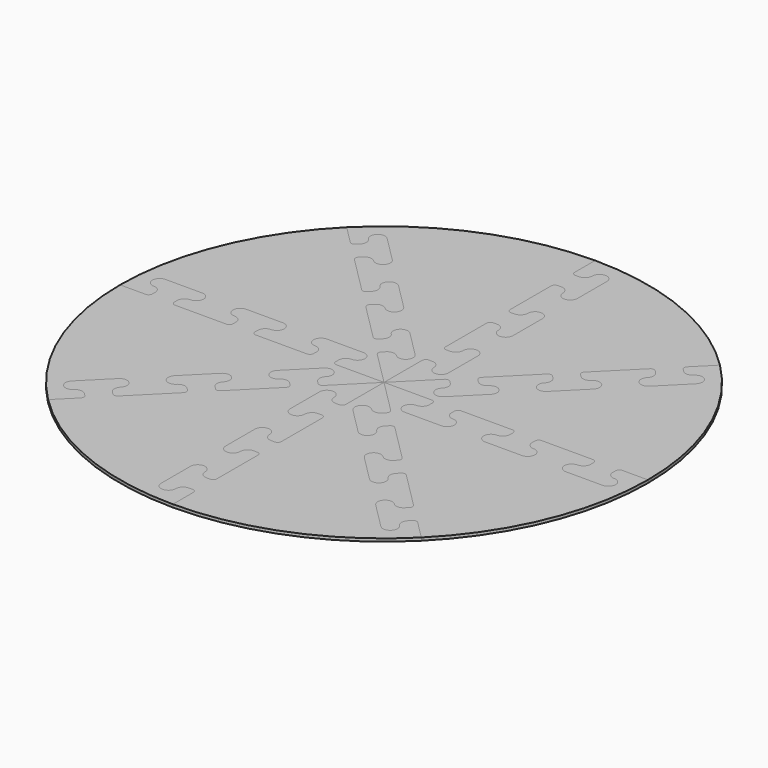
from build123d import *

# Parameters (mm, degrees)
F1_DEPTH = 5
F2_DEPTH = 5
F3_DEPTH = 5
F4_DEPTH = 5
F5_DEPTH = 5
F6_DEPTH = 5
F7_DEPTH = 5
F8_DEPTH = 5


with BuildPart() as f1:
    # F0 (on Top) → F1 (new body)
    with BuildSketch(Plane.XY):
        with BuildLine():
            Line((-412.75, 0), (-457.2, 0))
            ThreePointArc((-457.2, 0), (-422.397722, -174.962865), (-323.28922, -323.28922))
            Line((-323.28922, -323.28922), (-291.858324, -291.858324))
            ThreePointArc((-291.858324, -291.858324), (-289.998452, -287.368196), (-291.858324, -282.878068))
            Line((-291.858324, -282.878068), (-296.348452, -278.38794))
            ThreePointArc((-296.348452, -278.38794), (-305.328708, -274.668196), (-314.308964, -278.38794))
            ThreePointArc((-314.308964, -278.38794), (-332.269476, -278.38794), (-332.269476, -260.427428))
            Line((-332.269476, -260.427428), (-309.818836, -237.976787))
            Line((-309.818836, -237.976787), (-287.368196, -215.526147))
            ThreePointArc((-287.368196, -215.526147), (-269.407684, -215.526147), (-269.407684, -233.486659))
            ThreePointArc((-269.407684, -233.486659), (-273.127428, -242.466915), (-269.407684, -251.447171))
            Line((-269.407684, -251.447171), (-264.917556, -255.937299))
            ThreePointArc((-264.917556, -255.937299), (-260.427428, -257.797171), (-255.937299, -255.937299))
            Line((-255.937299, -255.937299), (-224.506403, -224.506403))
            Line((-224.506403, -224.506403), (-193.075507, -193.075507))
            ThreePointArc((-193.075507, -193.075507), (-191.215635, -188.585379), (-193.075507, -184.09525))
            Line((-193.075507, -184.09525), (-197.565635, -179.605122))
            ThreePointArc((-197.565635, -179.605122), (-206.545891, -175.885379), (-215.526147, -179.605122))
            ThreePointArc((-215.526147, -179.605122), (-233.486659, -179.605122), (-233.486659, -161.64461))
            Line((-233.486659, -161.64461), (-211.036019, -139.19397))
            Line((-211.036019, -139.19397), (-188.585379, -116.74333))
            ThreePointArc((-188.585379, -116.74333), (-170.624866, -116.74333), (-170.624866, -134.703842))
            ThreePointArc((-170.624866, -134.703842), (-174.34461, -143.684098), (-170.624866, -152.664354))
            Line((-170.624866, -152.664354), (-166.134738, -157.154482))
            ThreePointArc((-166.134738, -157.154482), (-161.64461, -159.014354), (-157.154482, -157.154482))
            Line((-157.154482, -157.154482), (-125.723586, -125.723586))
            Line((-125.723586, -125.723586), (-94.292689, -94.292689))
            ThreePointArc((-94.292689, -94.292689), (-92.432817, -89.802561), (-94.292689, -85.312433))
            Line((-94.292689, -85.312433), (-98.782817, -80.822305))
            ThreePointArc((-98.782817, -80.822305), (-107.763073, -77.102561), (-116.74333, -80.822305))
            ThreePointArc((-116.74333, -80.822305), (-134.703842, -80.822305), (-134.703842, -62.861793))
            Line((-134.703842, -62.861793), (-112.253202, -40.411153))
            Line((-112.253202, -40.411153), (-89.802561, -17.960512))
            ThreePointArc((-89.802561, -17.960512), (-71.842049, -17.960512), (-71.842049, -35.921024))
            ThreePointArc((-71.842049, -35.921024), (-75.561793, -44.901281), (-71.842049, -53.881537))
            Line((-71.842049, -53.881537), (-67.351921, -58.371665))
            ThreePointArc((-67.351921, -58.371665), (-62.861793, -60.231537), (-58.371665, -58.371665))
            Line((-58.371665, -58.371665), (0, 0))
            Line((0, 0), (-82.55, 0))
            ThreePointArc((-82.55, 0), (-87.040128, 1.859872), (-88.9, 6.35))
            Line((-88.9, 6.35), (-88.9, 12.7))
            ThreePointArc((-88.9, 12.7), (-85.180256, 21.680256), (-76.2, 25.4))
            ThreePointArc((-76.2, 25.4), (-63.5, 38.1), (-76.2, 50.8))
            Line((-76.2, 50.8), (-107.95, 50.8))
            Line((-107.95, 50.8), (-139.7, 50.8))
            ThreePointArc((-139.7, 50.8), (-152.4, 38.1), (-139.7, 25.4))
            ThreePointArc((-139.7, 25.4), (-130.719744, 21.680256), (-127, 12.7))
            Line((-127, 12.7), (-127, 6.35))
            ThreePointArc((-127, 6.35), (-128.859872, 1.859872), (-133.35, 0))
            Line((-133.35, 0), (-177.8, 0))
            Line((-177.8, 0), (-222.25, 0))
            ThreePointArc((-222.25, 0), (-226.740128, 1.859872), (-228.6, 6.35))
            Line((-228.6, 6.35), (-228.6, 12.7))
            ThreePointArc((-228.6, 12.7), (-224.880256, 21.680256), (-215.9, 25.4))
            ThreePointArc((-215.9, 25.4), (-203.2, 38.1), (-215.9, 50.8))
            Line((-215.9, 50.8), (-247.65, 50.8))
            Line((-247.65, 50.8), (-279.4, 50.8))
            ThreePointArc((-279.4, 50.8), (-292.1, 38.1), (-279.4, 25.4))
            ThreePointArc((-279.4, 25.4), (-270.419744, 21.680256), (-266.7, 12.7))
            Line((-266.7, 12.7), (-266.7, 6.35))
            ThreePointArc((-266.7, 6.35), (-268.559872, 1.859872), (-273.05, 0))
            Line((-273.05, 0), (-317.5, 0))
            Line((-317.5, 0), (-361.95, 0))
            ThreePointArc((-361.95, 0), (-366.440128, 1.859872), (-368.3, 6.35))
            Line((-368.3, 6.35), (-368.3, 12.7))
            ThreePointArc((-368.3, 12.7), (-364.580256, 21.680256), (-355.6, 25.4))
            ThreePointArc((-355.6, 25.4), (-342.9, 38.1), (-355.6, 50.8))
            Line((-355.6, 50.8), (-387.35, 50.8))
            Line((-387.35, 50.8), (-419.1, 50.8))
            ThreePointArc((-419.1, 50.8), (-431.8, 38.1), (-419.1, 25.4))
            ThreePointArc((-419.1, 25.4), (-410.119744, 21.680256), (-406.4, 12.7))
            Line((-406.4, 12.7), (-406.4, 6.35))
            ThreePointArc((-406.4, 6.35), (-408.259872, 1.859872), (-412.75, 0))
        make_face()
    extrude(amount=F1_DEPTH)


with BuildPart() as f2:
    # F0 (on Top) → F2 (new body)
    with BuildSketch(Plane.XY):
        with BuildLine():
            ThreePointArc((-323.28922, 323.28922), (-422.397722, 174.962865), (-457.2, 0))
            Line((-457.2, 0), (-412.75, 0))
            ThreePointArc((-412.75, 0), (-408.259872, 1.859872), (-406.4, 6.35))
            Line((-406.4, 6.35), (-406.4, 12.7))
            ThreePointArc((-406.4, 12.7), (-410.119744, 21.680256), (-419.1, 25.4))
            ThreePointArc((-419.1, 25.4), (-431.8, 38.1), (-419.1, 50.8))
            Line((-419.1, 50.8), (-387.35, 50.8))
            Line((-387.35, 50.8), (-355.6, 50.8))
            ThreePointArc((-355.6, 50.8), (-342.9, 38.1), (-355.6, 25.4))
            ThreePointArc((-355.6, 25.4), (-364.580256, 21.680256), (-368.3, 12.7))
            Line((-368.3, 12.7), (-368.3, 6.35))
            ThreePointArc((-368.3, 6.35), (-366.440128, 1.859872), (-361.95, 0))
            Line((-361.95, 0), (-317.5, 0))
            Line((-317.5, 0), (-273.05, 0))
            ThreePointArc((-273.05, 0), (-268.559872, 1.859872), (-266.7, 6.35))
            Line((-266.7, 6.35), (-266.7, 12.7))
            ThreePointArc((-266.7, 12.7), (-270.419744, 21.680256), (-279.4, 25.4))
            ThreePointArc((-279.4, 25.4), (-292.1, 38.1), (-279.4, 50.8))
            Line((-279.4, 50.8), (-247.65, 50.8))
            Line((-247.65, 50.8), (-215.9, 50.8))
            ThreePointArc((-215.9, 50.8), (-203.2, 38.1), (-215.9, 25.4))
            ThreePointArc((-215.9, 25.4), (-224.880256, 21.680256), (-228.6, 12.7))
            Line((-228.6, 12.7), (-228.6, 6.35))
            ThreePointArc((-228.6, 6.35), (-226.740128, 1.859872), (-222.25, 0))
            Line((-222.25, 0), (-177.8, 0))
            Line((-177.8, 0), (-133.35, 0))
            ThreePointArc((-133.35, 0), (-128.859872, 1.859872), (-127, 6.35))
            Line((-127, 6.35), (-127, 12.7))
            ThreePointArc((-127, 12.7), (-130.719744, 21.680256), (-139.7, 25.4))
            ThreePointArc((-139.7, 25.4), (-152.4, 38.1), (-139.7, 50.8))
            Line((-139.7, 50.8), (-107.95, 50.8))
            Line((-107.95, 50.8), (-76.2, 50.8))
            ThreePointArc((-76.2, 50.8), (-63.5, 38.1), (-76.2, 25.4))
            ThreePointArc((-76.2, 25.4), (-85.180256, 21.680256), (-88.9, 12.7))
            Line((-88.9, 12.7), (-88.9, 6.35))
            ThreePointArc((-88.9, 6.35), (-87.040128, 1.859872), (-82.55, 0))
            Line((-82.55, 0), (0, 0))
            Line((0, 0), (-58.371665, 58.371665))
            ThreePointArc((-58.371665, 58.371665), (-60.231537, 62.861793), (-58.371665, 67.351921))
            Line((-58.371665, 67.351921), (-53.881537, 71.842049))
            ThreePointArc((-53.881537, 71.842049), (-44.901281, 75.561793), (-35.921024, 71.842049))
            ThreePointArc((-35.921024, 71.842049), (-17.960512, 71.842049), (-17.960512, 89.802561))
            Line((-17.960512, 89.802561), (-40.411153, 112.253202))
            Line((-40.411153, 112.253202), (-62.861793, 134.703842))
            ThreePointArc((-62.861793, 134.703842), (-80.822305, 134.703842), (-80.822305, 116.74333))
            ThreePointArc((-80.822305, 116.74333), (-77.102561, 107.763073), (-80.822305, 98.782817))
            Line((-80.822305, 98.782817), (-85.312433, 94.292689))
            ThreePointArc((-85.312433, 94.292689), (-89.802561, 92.432817), (-94.292689, 94.292689))
            Line((-94.292689, 94.292689), (-125.723586, 125.723586))
            Line((-125.723586, 125.723586), (-157.154482, 157.154482))
            ThreePointArc((-157.154482, 157.154482), (-159.014354, 161.64461), (-157.154482, 166.134738))
            Line((-157.154482, 166.134738), (-152.664354, 170.624866))
            ThreePointArc((-152.664354, 170.624866), (-143.684098, 174.34461), (-134.703842, 170.624866))
            ThreePointArc((-134.703842, 170.624866), (-116.74333, 170.624866), (-116.74333, 188.585379))
            Line((-116.74333, 188.585379), (-139.19397, 211.036019))
            Line((-139.19397, 211.036019), (-161.64461, 233.486659))
            ThreePointArc((-161.64461, 233.486659), (-179.605122, 233.486659), (-179.605122, 215.526147))
            ThreePointArc((-179.605122, 215.526147), (-175.885379, 206.545891), (-179.605122, 197.565635))
            Line((-179.605122, 197.565635), (-184.09525, 193.075507))
            ThreePointArc((-184.09525, 193.075507), (-188.585379, 191.215635), (-193.075507, 193.075507))
            Line((-193.075507, 193.075507), (-224.506403, 224.506403))
            Line((-224.506403, 224.506403), (-255.937299, 255.937299))
            ThreePointArc((-255.937299, 255.937299), (-257.797171, 260.427428), (-255.937299, 264.917556))
            Line((-255.937299, 264.917556), (-251.447171, 269.407684))
            ThreePointArc((-251.447171, 269.407684), (-242.466915, 273.127428), (-233.486659, 269.407684))
            ThreePointArc((-233.486659, 269.407684), (-215.526147, 269.407684), (-215.526147, 287.368196))
            Line((-215.526147, 287.368196), (-237.976787, 309.818836))
            Line((-237.976787, 309.818836), (-260.427428, 332.269476))
            ThreePointArc((-260.427428, 332.269476), (-278.38794, 332.269476), (-278.38794, 314.308964))
            ThreePointArc((-278.38794, 314.308964), (-274.668196, 305.328708), (-278.38794, 296.348452))
            Line((-278.38794, 296.348452), (-282.878068, 291.858324))
            ThreePointArc((-282.878068, 291.858324), (-287.368196, 289.998452), (-291.858324, 291.858324))
            Line((-291.858324, 291.858324), (-323.28922, 323.28922))
        make_face()
    extrude(amount=F2_DEPTH)


with BuildPart() as f3:
    # F0 (on Top) → F3 (new body)
    with BuildSketch(Plane.XY):
        with BuildLine():
            ThreePointArc((0, 457.2), (-174.962865, 422.397722), (-323.28922, 323.28922))
            Line((-323.28922, 323.28922), (-291.858324, 291.858324))
            ThreePointArc((-291.858324, 291.858324), (-287.368196, 289.998452), (-282.878068, 291.858324))
            Line((-282.878068, 291.858324), (-278.38794, 296.348452))
            ThreePointArc((-278.38794, 296.348452), (-274.668196, 305.328708), (-278.38794, 314.308964))
            ThreePointArc((-278.38794, 314.308964), (-278.38794, 332.269476), (-260.427428, 332.269476))
            Line((-260.427428, 332.269476), (-237.976787, 309.818836))
            Line((-237.976787, 309.818836), (-215.526147, 287.368196))
            ThreePointArc((-215.526147, 287.368196), (-215.526147, 269.407684), (-233.486659, 269.407684))
            ThreePointArc((-233.486659, 269.407684), (-242.466915, 273.127428), (-251.447171, 269.407684))
            Line((-251.447171, 269.407684), (-255.937299, 264.917556))
            ThreePointArc((-255.937299, 264.917556), (-257.797171, 260.427428), (-255.937299, 255.937299))
            Line((-255.937299, 255.937299), (-224.506403, 224.506403))
            Line((-224.506403, 224.506403), (-193.075507, 193.075507))
            ThreePointArc((-193.075507, 193.075507), (-188.585379, 191.215635), (-184.09525, 193.075507))
            Line((-184.09525, 193.075507), (-179.605122, 197.565635))
            ThreePointArc((-179.605122, 197.565635), (-175.885379, 206.545891), (-179.605122, 215.526147))
            ThreePointArc((-179.605122, 215.526147), (-179.605122, 233.486659), (-161.64461, 233.486659))
            Line((-161.64461, 233.486659), (-139.19397, 211.036019))
            Line((-139.19397, 211.036019), (-116.74333, 188.585379))
            ThreePointArc((-116.74333, 188.585379), (-116.74333, 170.624866), (-134.703842, 170.624866))
            ThreePointArc((-134.703842, 170.624866), (-143.684098, 174.34461), (-152.664354, 170.624866))
            Line((-152.664354, 170.624866), (-157.154482, 166.134738))
            ThreePointArc((-157.154482, 166.134738), (-159.014354, 161.64461), (-157.154482, 157.154482))
            Line((-157.154482, 157.154482), (-125.723586, 125.723586))
            Line((-125.723586, 125.723586), (-94.292689, 94.292689))
            ThreePointArc((-94.292689, 94.292689), (-89.802561, 92.432817), (-85.312433, 94.292689))
            Line((-85.312433, 94.292689), (-80.822305, 98.782817))
            ThreePointArc((-80.822305, 98.782817), (-77.102561, 107.763073), (-80.822305, 116.74333))
            ThreePointArc((-80.822305, 116.74333), (-80.822305, 134.703842), (-62.861793, 134.703842))
            Line((-62.861793, 134.703842), (-40.411153, 112.253202))
            Line((-40.411153, 112.253202), (-17.960512, 89.802561))
            ThreePointArc((-17.960512, 89.802561), (-17.960512, 71.842049), (-35.921024, 71.842049))
            ThreePointArc((-35.921024, 71.842049), (-44.901281, 75.561793), (-53.881537, 71.842049))
            Line((-53.881537, 71.842049), (-58.371665, 67.351921))
            ThreePointArc((-58.371665, 67.351921), (-60.231537, 62.861793), (-58.371665, 58.371665))
            Line((-58.371665, 58.371665), (0, 0))
            Line((0, 0), (0, 82.55))
            ThreePointArc((0, 82.55), (1.859872, 87.040128), (6.35, 88.9))
            Line((6.35, 88.9), (12.7, 88.9))
            ThreePointArc((12.7, 88.9), (21.680256, 85.180256), (25.4, 76.2))
            ThreePointArc((25.4, 76.2), (38.1, 63.5), (50.8, 76.2))
            Line((50.8, 76.2), (50.8, 107.95))
            Line((50.8, 107.95), (50.8, 139.7))
            ThreePointArc((50.8, 139.7), (38.1, 152.4), (25.4, 139.7))
            ThreePointArc((25.4, 139.7), (21.680256, 130.719744), (12.7, 127))
            Line((12.7, 127), (6.35, 127))
            ThreePointArc((6.35, 127), (1.859872, 128.859872), (0, 133.35))
            Line((0, 133.35), (0, 177.8))
            Line((0, 177.8), (0, 222.25))
            ThreePointArc((0, 222.25), (1.859872, 226.740128), (6.35, 228.6))
            Line((6.35, 228.6), (12.7, 228.6))
            ThreePointArc((12.7, 228.6), (21.680256, 224.880256), (25.4, 215.9))
            ThreePointArc((25.4, 215.9), (38.1, 203.2), (50.8, 215.9))
            Line((50.8, 215.9), (50.8, 247.65))
            Line((50.8, 247.65), (50.8, 279.4))
            ThreePointArc((50.8, 279.4), (38.1, 292.1), (25.4, 279.4))
            ThreePointArc((25.4, 279.4), (21.680256, 270.419744), (12.7, 266.7))
            Line((12.7, 266.7), (6.35, 266.7))
            ThreePointArc((6.35, 266.7), (1.859872, 268.559872), (0, 273.05))
            Line((0, 273.05), (0, 317.5))
            Line((0, 317.5), (0, 361.95))
            ThreePointArc((0, 361.95), (1.859872, 366.440128), (6.35, 368.3))
            Line((6.35, 368.3), (12.7, 368.3))
            ThreePointArc((12.7, 368.3), (21.680256, 364.580256), (25.4, 355.6))
            ThreePointArc((25.4, 355.6), (38.1, 342.9), (50.8, 355.6))
            Line((50.8, 355.6), (50.8, 387.35))
            Line((50.8, 387.35), (50.8, 419.1))
            ThreePointArc((50.8, 419.1), (38.1, 431.8), (25.4, 419.1))
            ThreePointArc((25.4, 419.1), (21.680256, 410.119744), (12.7, 406.4))
            Line((12.7, 406.4), (6.35, 406.4))
            ThreePointArc((6.35, 406.4), (1.859872, 408.259872), (0, 412.75))
            Line((0, 412.75), (0, 457.2))
        make_face()
    extrude(amount=F3_DEPTH)


with BuildPart() as f4:
    # F0 (on Top) → F4 (new body)
    with BuildSketch(Plane.XY):
        with BuildLine():
            ThreePointArc((323.28922, 323.28922), (174.962865, 422.397722), (0, 457.2))
            Line((0, 457.2), (0, 412.75))
            ThreePointArc((0, 412.75), (1.859872, 408.259872), (6.35, 406.4))
            Line((6.35, 406.4), (12.7, 406.4))
            ThreePointArc((12.7, 406.4), (21.680256, 410.119744), (25.4, 419.1))
            ThreePointArc((25.4, 419.1), (38.1, 431.8), (50.8, 419.1))
            Line((50.8, 419.1), (50.8, 387.35))
            Line((50.8, 387.35), (50.8, 355.6))
            ThreePointArc((50.8, 355.6), (38.1, 342.9), (25.4, 355.6))
            ThreePointArc((25.4, 355.6), (21.680256, 364.580256), (12.7, 368.3))
            Line((12.7, 368.3), (6.35, 368.3))
            ThreePointArc((6.35, 368.3), (1.859872, 366.440128), (0, 361.95))
            Line((0, 361.95), (0, 317.5))
            Line((0, 317.5), (0, 273.05))
            ThreePointArc((0, 273.05), (1.859872, 268.559872), (6.35, 266.7))
            Line((6.35, 266.7), (12.7, 266.7))
            ThreePointArc((12.7, 266.7), (21.680256, 270.419744), (25.4, 279.4))
            ThreePointArc((25.4, 279.4), (38.1, 292.1), (50.8, 279.4))
            Line((50.8, 279.4), (50.8, 247.65))
            Line((50.8, 247.65), (50.8, 215.9))
            ThreePointArc((50.8, 215.9), (38.1, 203.2), (25.4, 215.9))
            ThreePointArc((25.4, 215.9), (21.680256, 224.880256), (12.7, 228.6))
            Line((12.7, 228.6), (6.35, 228.6))
            ThreePointArc((6.35, 228.6), (1.859872, 226.740128), (0, 222.25))
            Line((0, 222.25), (0, 177.8))
            Line((0, 177.8), (0, 133.35))
            ThreePointArc((0, 133.35), (1.859872, 128.859872), (6.35, 127))
            Line((6.35, 127), (12.7, 127))
            ThreePointArc((12.7, 127), (21.680256, 130.719744), (25.4, 139.7))
            ThreePointArc((25.4, 139.7), (38.1, 152.4), (50.8, 139.7))
            Line((50.8, 139.7), (50.8, 107.95))
            Line((50.8, 107.95), (50.8, 76.2))
            ThreePointArc((50.8, 76.2), (38.1, 63.5), (25.4, 76.2))
            ThreePointArc((25.4, 76.2), (21.680256, 85.180256), (12.7, 88.9))
            Line((12.7, 88.9), (6.35, 88.9))
            ThreePointArc((6.35, 88.9), (1.859872, 87.040128), (0, 82.55))
            Line((0, 82.55), (0, 0))
            Line((0, 0), (58.371665, 58.371665))
            ThreePointArc((58.371665, 58.371665), (62.861793, 60.231537), (67.351921, 58.371665))
            Line((67.351921, 58.371665), (71.842049, 53.881537))
            ThreePointArc((71.842049, 53.881537), (75.561793, 44.901281), (71.842049, 35.921024))
            ThreePointArc((71.842049, 35.921024), (71.842049, 17.960512), (89.802561, 17.960512))
            Line((89.802561, 17.960512), (112.253202, 40.411153))
            Line((112.253202, 40.411153), (134.703842, 62.861793))
            ThreePointArc((134.703842, 62.861793), (134.703842, 80.822305), (116.74333, 80.822305))
            ThreePointArc((116.74333, 80.822305), (107.763073, 77.102561), (98.782817, 80.822305))
            Line((98.782817, 80.822305), (94.292689, 85.312433))
            ThreePointArc((94.292689, 85.312433), (92.432817, 89.802561), (94.292689, 94.292689))
            Line((94.292689, 94.292689), (125.723586, 125.723586))
            Line((125.723586, 125.723586), (157.154482, 157.154482))
            ThreePointArc((157.154482, 157.154482), (161.64461, 159.014354), (166.134738, 157.154482))
            Line((166.134738, 157.154482), (170.624866, 152.664354))
            ThreePointArc((170.624866, 152.664354), (174.34461, 143.684098), (170.624866, 134.703842))
            ThreePointArc((170.624866, 134.703842), (170.624866, 116.74333), (188.585379, 116.74333))
            Line((188.585379, 116.74333), (211.036019, 139.19397))
            Line((211.036019, 139.19397), (233.486659, 161.64461))
            ThreePointArc((233.486659, 161.64461), (233.486659, 179.605122), (215.526147, 179.605122))
            ThreePointArc((215.526147, 179.605122), (206.545891, 175.885379), (197.565635, 179.605122))
            Line((197.565635, 179.605122), (193.075507, 184.09525))
            ThreePointArc((193.075507, 184.09525), (191.215635, 188.585379), (193.075507, 193.075507))
            Line((193.075507, 193.075507), (224.506403, 224.506403))
            Line((224.506403, 224.506403), (255.937299, 255.937299))
            ThreePointArc((255.937299, 255.937299), (260.427428, 257.797171), (264.917556, 255.937299))
            Line((264.917556, 255.937299), (269.407684, 251.447171))
            ThreePointArc((269.407684, 251.447171), (273.127428, 242.466915), (269.407684, 233.486659))
            ThreePointArc((269.407684, 233.486659), (269.407684, 215.526147), (287.368196, 215.526147))
            Line((287.368196, 215.526147), (309.818836, 237.976787))
            Line((309.818836, 237.976787), (332.269476, 260.427428))
            ThreePointArc((332.269476, 260.427428), (332.269476, 278.38794), (314.308964, 278.38794))
            ThreePointArc((314.308964, 278.38794), (305.328708, 274.668196), (296.348452, 278.38794))
            Line((296.348452, 278.38794), (291.858324, 282.878068))
            ThreePointArc((291.858324, 282.878068), (289.998452, 287.368196), (291.858324, 291.858324))
            Line((291.858324, 291.858324), (323.28922, 323.28922))
        make_face()
    extrude(amount=F4_DEPTH)


with BuildPart() as f5:
    # F0 (on Top) → F5 (new body)
    with BuildSketch(Plane.XY):
        with BuildLine():
            ThreePointArc((457.2, 0), (422.397722, 174.962865), (323.28922, 323.28922))
            Line((323.28922, 323.28922), (291.858324, 291.858324))
            ThreePointArc((291.858324, 291.858324), (289.998452, 287.368196), (291.858324, 282.878068))
            Line((291.858324, 282.878068), (296.348452, 278.38794))
            ThreePointArc((296.348452, 278.38794), (305.328708, 274.668196), (314.308964, 278.38794))
            ThreePointArc((314.308964, 278.38794), (332.269476, 278.38794), (332.269476, 260.427428))
            Line((332.269476, 260.427428), (309.818836, 237.976787))
            Line((309.818836, 237.976787), (287.368196, 215.526147))
            ThreePointArc((287.368196, 215.526147), (269.407684, 215.526147), (269.407684, 233.486659))
            ThreePointArc((269.407684, 233.486659), (273.127428, 242.466915), (269.407684, 251.447171))
            Line((269.407684, 251.447171), (264.917556, 255.937299))
            ThreePointArc((264.917556, 255.937299), (260.427428, 257.797171), (255.937299, 255.937299))
            Line((255.937299, 255.937299), (224.506403, 224.506403))
            Line((224.506403, 224.506403), (193.075507, 193.075507))
            ThreePointArc((193.075507, 193.075507), (191.215635, 188.585379), (193.075507, 184.09525))
            Line((193.075507, 184.09525), (197.565635, 179.605122))
            ThreePointArc((197.565635, 179.605122), (206.545891, 175.885379), (215.526147, 179.605122))
            ThreePointArc((215.526147, 179.605122), (233.486659, 179.605122), (233.486659, 161.64461))
            Line((233.486659, 161.64461), (211.036019, 139.19397))
            Line((211.036019, 139.19397), (188.585379, 116.74333))
            ThreePointArc((188.585379, 116.74333), (170.624866, 116.74333), (170.624866, 134.703842))
            ThreePointArc((170.624866, 134.703842), (174.34461, 143.684098), (170.624866, 152.664354))
            Line((170.624866, 152.664354), (166.134738, 157.154482))
            ThreePointArc((166.134738, 157.154482), (161.64461, 159.014354), (157.154482, 157.154482))
            Line((157.154482, 157.154482), (125.723586, 125.723586))
            Line((125.723586, 125.723586), (94.292689, 94.292689))
            ThreePointArc((94.292689, 94.292689), (92.432817, 89.802561), (94.292689, 85.312433))
            Line((94.292689, 85.312433), (98.782817, 80.822305))
            ThreePointArc((98.782817, 80.822305), (107.763073, 77.102561), (116.74333, 80.822305))
            ThreePointArc((116.74333, 80.822305), (134.703842, 80.822305), (134.703842, 62.861793))
            Line((134.703842, 62.861793), (112.253202, 40.411153))
            Line((112.253202, 40.411153), (89.802561, 17.960512))
            ThreePointArc((89.802561, 17.960512), (71.842049, 17.960512), (71.842049, 35.921024))
            ThreePointArc((71.842049, 35.921024), (75.561793, 44.901281), (71.842049, 53.881537))
            Line((71.842049, 53.881537), (67.351921, 58.371665))
            ThreePointArc((67.351921, 58.371665), (62.861793, 60.231537), (58.371665, 58.371665))
            Line((58.371665, 58.371665), (0, 0))
            Line((0, 0), (82.55, 0))
            ThreePointArc((82.55, 0), (87.040128, -1.859872), (88.9, -6.35))
            Line((88.9, -6.35), (88.9, -12.7))
            ThreePointArc((88.9, -12.7), (85.180256, -21.680256), (76.2, -25.4))
            ThreePointArc((76.2, -25.4), (63.5, -38.1), (76.2, -50.8))
            Line((76.2, -50.8), (107.95, -50.8))
            Line((107.95, -50.8), (139.7, -50.8))
            ThreePointArc((139.7, -50.8), (152.4, -38.1), (139.7, -25.4))
            ThreePointArc((139.7, -25.4), (130.719744, -21.680256), (127, -12.7))
            Line((127, -12.7), (127, -6.35))
            ThreePointArc((127, -6.35), (128.859872, -1.859872), (133.35, 0))
            Line((133.35, 0), (177.8, 0))
            Line((177.8, 0), (222.25, 0))
            ThreePointArc((222.25, 0), (226.740128, -1.859872), (228.6, -6.35))
            Line((228.6, -6.35), (228.6, -12.7))
            ThreePointArc((228.6, -12.7), (224.880256, -21.680256), (215.9, -25.4))
            ThreePointArc((215.9, -25.4), (203.2, -38.1), (215.9, -50.8))
            Line((215.9, -50.8), (247.65, -50.8))
            Line((247.65, -50.8), (279.4, -50.8))
            ThreePointArc((279.4, -50.8), (292.1, -38.1), (279.4, -25.4))
            ThreePointArc((279.4, -25.4), (270.419744, -21.680256), (266.7, -12.7))
            Line((266.7, -12.7), (266.7, -6.35))
            ThreePointArc((266.7, -6.35), (268.559872, -1.859872), (273.05, 0))
            Line((273.05, 0), (317.5, 0))
            Line((317.5, 0), (361.95, 0))
            ThreePointArc((361.95, 0), (366.440128, -1.859872), (368.3, -6.35))
            Line((368.3, -6.35), (368.3, -12.7))
            ThreePointArc((368.3, -12.7), (364.580256, -21.680256), (355.6, -25.4))
            ThreePointArc((355.6, -25.4), (342.9, -38.1), (355.6, -50.8))
            Line((355.6, -50.8), (387.35, -50.8))
            Line((387.35, -50.8), (419.1, -50.8))
            ThreePointArc((419.1, -50.8), (431.8, -38.1), (419.1, -25.4))
            ThreePointArc((419.1, -25.4), (410.119744, -21.680256), (406.4, -12.7))
            Line((406.4, -12.7), (406.4, -6.35))
            ThreePointArc((406.4, -6.35), (408.259872, -1.859872), (412.75, 0))
            Line((412.75, 0), (457.2, 0))
        make_face()
    extrude(amount=F5_DEPTH)


with BuildPart() as f6:
    # F0 (on Top) → F6 (new body)
    with BuildSketch(Plane.XY):
        with BuildLine():
            Line((291.858324, -291.858324), (323.28922, -323.28922))
            ThreePointArc((323.28922, -323.28922), (422.397722, -174.962865), (457.2, 0))
            Line((457.2, 0), (412.75, 0))
            ThreePointArc((412.75, 0), (408.259872, -1.859872), (406.4, -6.35))
            Line((406.4, -6.35), (406.4, -12.7))
            ThreePointArc((406.4, -12.7), (410.119744, -21.680256), (419.1, -25.4))
            ThreePointArc((419.1, -25.4), (431.8, -38.1), (419.1, -50.8))
            Line((419.1, -50.8), (387.35, -50.8))
            Line((387.35, -50.8), (355.6, -50.8))
            ThreePointArc((355.6, -50.8), (342.9, -38.1), (355.6, -25.4))
            ThreePointArc((355.6, -25.4), (364.580256, -21.680256), (368.3, -12.7))
            Line((368.3, -12.7), (368.3, -6.35))
            ThreePointArc((368.3, -6.35), (366.440128, -1.859872), (361.95, 0))
            Line((361.95, 0), (317.5, 0))
            Line((317.5, 0), (273.05, 0))
            ThreePointArc((273.05, 0), (268.559872, -1.859872), (266.7, -6.35))
            Line((266.7, -6.35), (266.7, -12.7))
            ThreePointArc((266.7, -12.7), (270.419744, -21.680256), (279.4, -25.4))
            ThreePointArc((279.4, -25.4), (292.1, -38.1), (279.4, -50.8))
            Line((279.4, -50.8), (247.65, -50.8))
            Line((247.65, -50.8), (215.9, -50.8))
            ThreePointArc((215.9, -50.8), (203.2, -38.1), (215.9, -25.4))
            ThreePointArc((215.9, -25.4), (224.880256, -21.680256), (228.6, -12.7))
            Line((228.6, -12.7), (228.6, -6.35))
            ThreePointArc((228.6, -6.35), (226.740128, -1.859872), (222.25, 0))
            Line((222.25, 0), (177.8, 0))
            Line((177.8, 0), (133.35, 0))
            ThreePointArc((133.35, 0), (128.859872, -1.859872), (127, -6.35))
            Line((127, -6.35), (127, -12.7))
            ThreePointArc((127, -12.7), (130.719744, -21.680256), (139.7, -25.4))
            ThreePointArc((139.7, -25.4), (152.4, -38.1), (139.7, -50.8))
            Line((139.7, -50.8), (107.95, -50.8))
            Line((107.95, -50.8), (76.2, -50.8))
            ThreePointArc((76.2, -50.8), (63.5, -38.1), (76.2, -25.4))
            ThreePointArc((76.2, -25.4), (85.180256, -21.680256), (88.9, -12.7))
            Line((88.9, -12.7), (88.9, -6.35))
            ThreePointArc((88.9, -6.35), (87.040128, -1.859872), (82.55, 0))
            Line((82.55, 0), (0, 0))
            Line((0, 0), (58.371665, -58.371665))
            ThreePointArc((58.371665, -58.371665), (60.231537, -62.861793), (58.371665, -67.351921))
            Line((58.371665, -67.351921), (53.881537, -71.842049))
            ThreePointArc((53.881537, -71.842049), (44.901281, -75.561793), (35.921024, -71.842049))
            ThreePointArc((35.921024, -71.842049), (17.960512, -71.842049), (17.960512, -89.802561))
            Line((17.960512, -89.802561), (40.411153, -112.253202))
            Line((40.411153, -112.253202), (62.861793, -134.703842))
            ThreePointArc((62.861793, -134.703842), (80.822305, -134.703842), (80.822305, -116.74333))
            ThreePointArc((80.822305, -116.74333), (77.102561, -107.763073), (80.822305, -98.782817))
            Line((80.822305, -98.782817), (85.312433, -94.292689))
            ThreePointArc((85.312433, -94.292689), (89.802561, -92.432817), (94.292689, -94.292689))
            Line((94.292689, -94.292689), (125.723586, -125.723586))
            Line((125.723586, -125.723586), (157.154482, -157.154482))
            ThreePointArc((157.154482, -157.154482), (159.014354, -161.64461), (157.154482, -166.134738))
            Line((157.154482, -166.134738), (152.664354, -170.624866))
            ThreePointArc((152.664354, -170.624866), (143.684098, -174.34461), (134.703842, -170.624866))
            ThreePointArc((134.703842, -170.624866), (116.74333, -170.624866), (116.74333, -188.585379))
            Line((116.74333, -188.585379), (139.19397, -211.036019))
            Line((139.19397, -211.036019), (161.64461, -233.486659))
            ThreePointArc((161.64461, -233.486659), (179.605122, -233.486659), (179.605122, -215.526147))
            ThreePointArc((179.605122, -215.526147), (175.885379, -206.545891), (179.605122, -197.565635))
            Line((179.605122, -197.565635), (184.09525, -193.075507))
            ThreePointArc((184.09525, -193.075507), (188.585379, -191.215635), (193.075507, -193.075507))
            Line((193.075507, -193.075507), (224.506403, -224.506403))
            Line((224.506403, -224.506403), (255.937299, -255.937299))
            ThreePointArc((255.937299, -255.937299), (257.797171, -260.427428), (255.937299, -264.917556))
            Line((255.937299, -264.917556), (251.447171, -269.407684))
            ThreePointArc((251.447171, -269.407684), (242.466915, -273.127428), (233.486659, -269.407684))
            ThreePointArc((233.486659, -269.407684), (215.526147, -269.407684), (215.526147, -287.368196))
            Line((215.526147, -287.368196), (237.976787, -309.818836))
            Line((237.976787, -309.818836), (260.427428, -332.269476))
            ThreePointArc((260.427428, -332.269476), (278.38794, -332.269476), (278.38794, -314.308964))
            ThreePointArc((278.38794, -314.308964), (274.668196, -305.328708), (278.38794, -296.348452))
            Line((278.38794, -296.348452), (282.878068, -291.858324))
            ThreePointArc((282.878068, -291.858324), (287.368196, -289.998452), (291.858324, -291.858324))
        make_face()
    extrude(amount=F6_DEPTH)


with BuildPart() as f7:
    # F0 (on Top) → F7 (new body)
    with BuildSketch(Plane.XY):
        with BuildLine():
            Line((0, -412.75), (0, -457.2))
            ThreePointArc((0, -457.2), (174.962865, -422.397722), (323.28922, -323.28922))
            Line((323.28922, -323.28922), (291.858324, -291.858324))
            ThreePointArc((291.858324, -291.858324), (287.368196, -289.998452), (282.878068, -291.858324))
            Line((282.878068, -291.858324), (278.38794, -296.348452))
            ThreePointArc((278.38794, -296.348452), (274.668196, -305.328708), (278.38794, -314.308964))
            ThreePointArc((278.38794, -314.308964), (278.38794, -332.269476), (260.427428, -332.269476))
            Line((260.427428, -332.269476), (237.976787, -309.818836))
            Line((237.976787, -309.818836), (215.526147, -287.368196))
            ThreePointArc((215.526147, -287.368196), (215.526147, -269.407684), (233.486659, -269.407684))
            ThreePointArc((233.486659, -269.407684), (242.466915, -273.127428), (251.447171, -269.407684))
            Line((251.447171, -269.407684), (255.937299, -264.917556))
            ThreePointArc((255.937299, -264.917556), (257.797171, -260.427428), (255.937299, -255.937299))
            Line((255.937299, -255.937299), (224.506403, -224.506403))
            Line((224.506403, -224.506403), (193.075507, -193.075507))
            ThreePointArc((193.075507, -193.075507), (188.585379, -191.215635), (184.09525, -193.075507))
            Line((184.09525, -193.075507), (179.605122, -197.565635))
            ThreePointArc((179.605122, -197.565635), (175.885379, -206.545891), (179.605122, -215.526147))
            ThreePointArc((179.605122, -215.526147), (179.605122, -233.486659), (161.64461, -233.486659))
            Line((161.64461, -233.486659), (139.19397, -211.036019))
            Line((139.19397, -211.036019), (116.74333, -188.585379))
            ThreePointArc((116.74333, -188.585379), (116.74333, -170.624866), (134.703842, -170.624866))
            ThreePointArc((134.703842, -170.624866), (143.684098, -174.34461), (152.664354, -170.624866))
            Line((152.664354, -170.624866), (157.154482, -166.134738))
            ThreePointArc((157.154482, -166.134738), (159.014354, -161.64461), (157.154482, -157.154482))
            Line((157.154482, -157.154482), (125.723586, -125.723586))
            Line((125.723586, -125.723586), (94.292689, -94.292689))
            ThreePointArc((94.292689, -94.292689), (89.802561, -92.432817), (85.312433, -94.292689))
            Line((85.312433, -94.292689), (80.822305, -98.782817))
            ThreePointArc((80.822305, -98.782817), (77.102561, -107.763073), (80.822305, -116.74333))
            ThreePointArc((80.822305, -116.74333), (80.822305, -134.703842), (62.861793, -134.703842))
            Line((62.861793, -134.703842), (40.411153, -112.253202))
            Line((40.411153, -112.253202), (17.960512, -89.802561))
            ThreePointArc((17.960512, -89.802561), (17.960512, -71.842049), (35.921024, -71.842049))
            ThreePointArc((35.921024, -71.842049), (44.901281, -75.561793), (53.881537, -71.842049))
            Line((53.881537, -71.842049), (58.371665, -67.351921))
            ThreePointArc((58.371665, -67.351921), (60.231537, -62.861793), (58.371665, -58.371665))
            Line((58.371665, -58.371665), (0, 0))
            Line((0, 0), (0, -82.55))
            ThreePointArc((0, -82.55), (-1.859872, -87.040128), (-6.35, -88.9))
            Line((-6.35, -88.9), (-12.7, -88.9))
            ThreePointArc((-12.7, -88.9), (-21.680256, -85.180256), (-25.4, -76.2))
            ThreePointArc((-25.4, -76.2), (-38.1, -63.5), (-50.8, -76.2))
            Line((-50.8, -76.2), (-50.8, -107.95))
            Line((-50.8, -107.95), (-50.8, -139.7))
            ThreePointArc((-50.8, -139.7), (-38.1, -152.4), (-25.4, -139.7))
            ThreePointArc((-25.4, -139.7), (-21.680256, -130.719744), (-12.7, -127))
            Line((-12.7, -127), (-6.35, -127))
            ThreePointArc((-6.35, -127), (-1.859872, -128.859872), (0, -133.35))
            Line((0, -133.35), (0, -177.8))
            Line((0, -177.8), (0, -222.25))
            ThreePointArc((0, -222.25), (-1.859872, -226.740128), (-6.35, -228.6))
            Line((-6.35, -228.6), (-12.7, -228.6))
            ThreePointArc((-12.7, -228.6), (-21.680256, -224.880256), (-25.4, -215.9))
            ThreePointArc((-25.4, -215.9), (-38.1, -203.2), (-50.8, -215.9))
            Line((-50.8, -215.9), (-50.8, -247.65))
            Line((-50.8, -247.65), (-50.8, -279.4))
            ThreePointArc((-50.8, -279.4), (-38.1, -292.1), (-25.4, -279.4))
            ThreePointArc((-25.4, -279.4), (-21.680256, -270.419744), (-12.7, -266.7))
            Line((-12.7, -266.7), (-6.35, -266.7))
            ThreePointArc((-6.35, -266.7), (-1.859872, -268.559872), (0, -273.05))
            Line((0, -273.05), (0, -317.5))
            Line((0, -317.5), (0, -361.95))
            ThreePointArc((0, -361.95), (-1.859872, -366.440128), (-6.35, -368.3))
            Line((-6.35, -368.3), (-12.7, -368.3))
            ThreePointArc((-12.7, -368.3), (-21.680256, -364.580256), (-25.4, -355.6))
            ThreePointArc((-25.4, -355.6), (-38.1, -342.9), (-50.8, -355.6))
            Line((-50.8, -355.6), (-50.8, -387.35))
            Line((-50.8, -387.35), (-50.8, -419.1))
            ThreePointArc((-50.8, -419.1), (-38.1, -431.8), (-25.4, -419.1))
            ThreePointArc((-25.4, -419.1), (-21.680256, -410.119744), (-12.7, -406.4))
            Line((-12.7, -406.4), (-6.35, -406.4))
            ThreePointArc((-6.35, -406.4), (-1.859872, -408.259872), (0, -412.75))
        make_face()
    extrude(amount=F7_DEPTH)


with BuildPart() as f8:
    # F0 (on Top) → F8 (new body)
    with BuildSketch(Plane.XY):
        with BuildLine():
            Line((-291.858324, -291.858324), (-323.28922, -323.28922))
            ThreePointArc((-323.28922, -323.28922), (-174.962865, -422.397722), (0, -457.2))
            Line((0, -457.2), (0, -412.75))
            ThreePointArc((0, -412.75), (-1.859872, -408.259872), (-6.35, -406.4))
            Line((-6.35, -406.4), (-12.7, -406.4))
            ThreePointArc((-12.7, -406.4), (-21.680256, -410.119744), (-25.4, -419.1))
            ThreePointArc((-25.4, -419.1), (-38.1, -431.8), (-50.8, -419.1))
            Line((-50.8, -419.1), (-50.8, -387.35))
            Line((-50.8, -387.35), (-50.8, -355.6))
            ThreePointArc((-50.8, -355.6), (-38.1, -342.9), (-25.4, -355.6))
            ThreePointArc((-25.4, -355.6), (-21.680256, -364.580256), (-12.7, -368.3))
            Line((-12.7, -368.3), (-6.35, -368.3))
            ThreePointArc((-6.35, -368.3), (-1.859872, -366.440128), (0, -361.95))
            Line((0, -361.95), (0, -317.5))
            Line((0, -317.5), (0, -273.05))
            ThreePointArc((0, -273.05), (-1.859872, -268.559872), (-6.35, -266.7))
            Line((-6.35, -266.7), (-12.7, -266.7))
            ThreePointArc((-12.7, -266.7), (-21.680256, -270.419744), (-25.4, -279.4))
            ThreePointArc((-25.4, -279.4), (-38.1, -292.1), (-50.8, -279.4))
            Line((-50.8, -279.4), (-50.8, -247.65))
            Line((-50.8, -247.65), (-50.8, -215.9))
            ThreePointArc((-50.8, -215.9), (-38.1, -203.2), (-25.4, -215.9))
            ThreePointArc((-25.4, -215.9), (-21.680256, -224.880256), (-12.7, -228.6))
            Line((-12.7, -228.6), (-6.35, -228.6))
            ThreePointArc((-6.35, -228.6), (-1.859872, -226.740128), (0, -222.25))
            Line((0, -222.25), (0, -177.8))
            Line((0, -177.8), (0, -133.35))
            ThreePointArc((0, -133.35), (-1.859872, -128.859872), (-6.35, -127))
            Line((-6.35, -127), (-12.7, -127))
            ThreePointArc((-12.7, -127), (-21.680256, -130.719744), (-25.4, -139.7))
            ThreePointArc((-25.4, -139.7), (-38.1, -152.4), (-50.8, -139.7))
            Line((-50.8, -139.7), (-50.8, -107.95))
            Line((-50.8, -107.95), (-50.8, -76.2))
            ThreePointArc((-50.8, -76.2), (-38.1, -63.5), (-25.4, -76.2))
            ThreePointArc((-25.4, -76.2), (-21.680256, -85.180256), (-12.7, -88.9))
            Line((-12.7, -88.9), (-6.35, -88.9))
            ThreePointArc((-6.35, -88.9), (-1.859872, -87.040128), (0, -82.55))
            Line((0, -82.55), (0, 0))
            Line((0, 0), (-58.371665, -58.371665))
            ThreePointArc((-58.371665, -58.371665), (-62.861793, -60.231537), (-67.351921, -58.371665))
            Line((-67.351921, -58.371665), (-71.842049, -53.881537))
            ThreePointArc((-71.842049, -53.881537), (-75.561793, -44.901281), (-71.842049, -35.921024))
            ThreePointArc((-71.842049, -35.921024), (-71.842049, -17.960512), (-89.802561, -17.960512))
            Line((-89.802561, -17.960512), (-112.253202, -40.411153))
            Line((-112.253202, -40.411153), (-134.703842, -62.861793))
            ThreePointArc((-134.703842, -62.861793), (-134.703842, -80.822305), (-116.74333, -80.822305))
            ThreePointArc((-116.74333, -80.822305), (-107.763073, -77.102561), (-98.782817, -80.822305))
            Line((-98.782817, -80.822305), (-94.292689, -85.312433))
            ThreePointArc((-94.292689, -85.312433), (-92.432817, -89.802561), (-94.292689, -94.292689))
            Line((-94.292689, -94.292689), (-125.723586, -125.723586))
            Line((-125.723586, -125.723586), (-157.154482, -157.154482))
            ThreePointArc((-157.154482, -157.154482), (-161.64461, -159.014354), (-166.134738, -157.154482))
            Line((-166.134738, -157.154482), (-170.624866, -152.664354))
            ThreePointArc((-170.624866, -152.664354), (-174.34461, -143.684098), (-170.624866, -134.703842))
            ThreePointArc((-170.624866, -134.703842), (-170.624866, -116.74333), (-188.585379, -116.74333))
            Line((-188.585379, -116.74333), (-211.036019, -139.19397))
            Line((-211.036019, -139.19397), (-233.486659, -161.64461))
            ThreePointArc((-233.486659, -161.64461), (-233.486659, -179.605122), (-215.526147, -179.605122))
            ThreePointArc((-215.526147, -179.605122), (-206.545891, -175.885379), (-197.565635, -179.605122))
            Line((-197.565635, -179.605122), (-193.075507, -184.09525))
            ThreePointArc((-193.075507, -184.09525), (-191.215635, -188.585379), (-193.075507, -193.075507))
            Line((-193.075507, -193.075507), (-224.506403, -224.506403))
            Line((-224.506403, -224.506403), (-255.937299, -255.937299))
            ThreePointArc((-255.937299, -255.937299), (-260.427428, -257.797171), (-264.917556, -255.937299))
            Line((-264.917556, -255.937299), (-269.407684, -251.447171))
            ThreePointArc((-269.407684, -251.447171), (-273.127428, -242.466915), (-269.407684, -233.486659))
            ThreePointArc((-269.407684, -233.486659), (-269.407684, -215.526147), (-287.368196, -215.526147))
            Line((-287.368196, -215.526147), (-309.818836, -237.976787))
            Line((-309.818836, -237.976787), (-332.269476, -260.427428))
            ThreePointArc((-332.269476, -260.427428), (-332.269476, -278.38794), (-314.308964, -278.38794))
            ThreePointArc((-314.308964, -278.38794), (-305.328708, -274.668196), (-296.348452, -278.38794))
            Line((-296.348452, -278.38794), (-291.858324, -282.878068))
            ThreePointArc((-291.858324, -282.878068), (-289.998452, -287.368196), (-291.858324, -291.858324))
        make_face()
    extrude(amount=F8_DEPTH)


solid = Compound([f1.part, f2.part, f3.part, f4.part, f5.part, f6.part, f7.part, f8.part])
